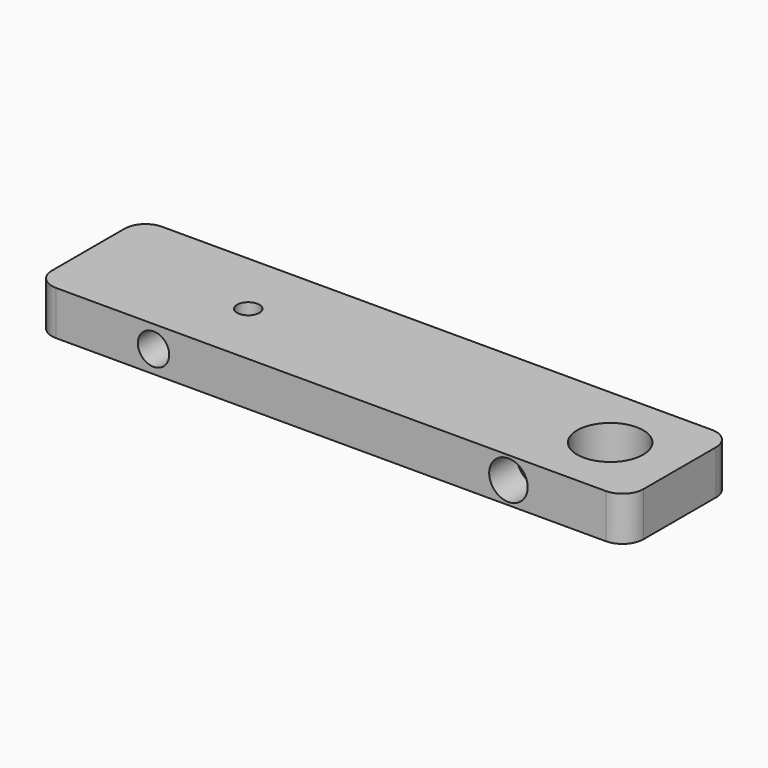
from build123d import *

# Parameters (mm, degrees)
F0_W     = 85
F0_H     = 19.05
F0_R     = 1.6
F0_R_2   = 4.75
F1_DEPTH = 3.175
F2_R     = 2.249345
F2_R_2   = 2.765541
F3_DEPTH = 5
F4_R     = 3


with BuildPart() as f1:
    # F0 (on Top) → F1 (new body, symmetric)
    with BuildSketch(Plane.XY):
        Rectangle(F0_W, F0_H)
        with Locations((-19.5, 0)):
            Circle(F0_R, mode=Mode.SUBTRACT)
        with Locations((32.5, 0)):
            Circle(F0_R_2, mode=Mode.SUBTRACT)
    extrude(amount=F1_DEPTH, both=True)

    # F2 (on face) → F3 (cut)
    with BuildSketch(Plane.XZ.offset(9.525)):
        with Locations((-25.5, 0)):
            Circle(F2_R)
        with Locations((25.5, 0)):
            Circle(F2_R_2)
    extrude(amount=-F3_DEPTH, mode=Mode.SUBTRACT)

    # F4
    f4_edges = [f1.edges().sort_by_distance(p)[0] for p in [
        (42.5, -9.525, 0),
        (42.5, 9.525, 0),
        (-42.5, -9.525, 0),
        (-42.5, 9.525, 0),
    ]]
    fillet(f4_edges, radius=F4_R)


solid = f1.part
